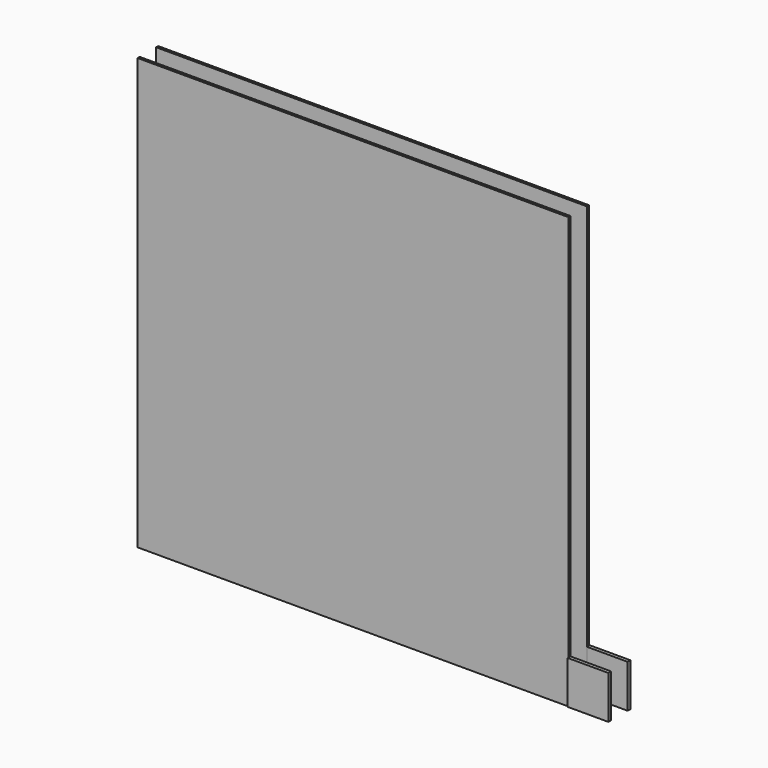
from build123d import *

# Parameters (mm, degrees)
F0_W     = 250
F0_H     = 1.5
F1_DEPTH = 250
F0_W_2   = 23.635
F0_H_2   = 0.5
F2_DEPTH = 25


with BuildPart() as f1:
    # F0 (on Top) → F1 (new body)
    with BuildSketch(Plane.XY):
        with Locations((0, -6.75)):
            Rectangle(F0_W, F0_H)
        with Locations((0, 6.75)):
            Rectangle(F0_W, F0_H)
    extrude(amount=F1_DEPTH)


with BuildPart() as f2:
    # F0 (on Top) → F2 (new body)
    with BuildSketch(Plane.XY):
        with Locations((136.8175, 6.75)):
            Rectangle(F0_W_2, F0_H)
        with Locations((136.8175, -6.75)):
            Rectangle(F0_W_2, F0_H)
        with Locations((136.8175, -7.75)):
            Rectangle(F0_W_2, F0_H_2)
        Polygon((125, 8), (125, 7.5), (148.635, 7.5), (148.635, 8), (148.272693, 8), align=None)
    extrude(amount=F2_DEPTH)


solid = Compound([f1.part, f2.part])
